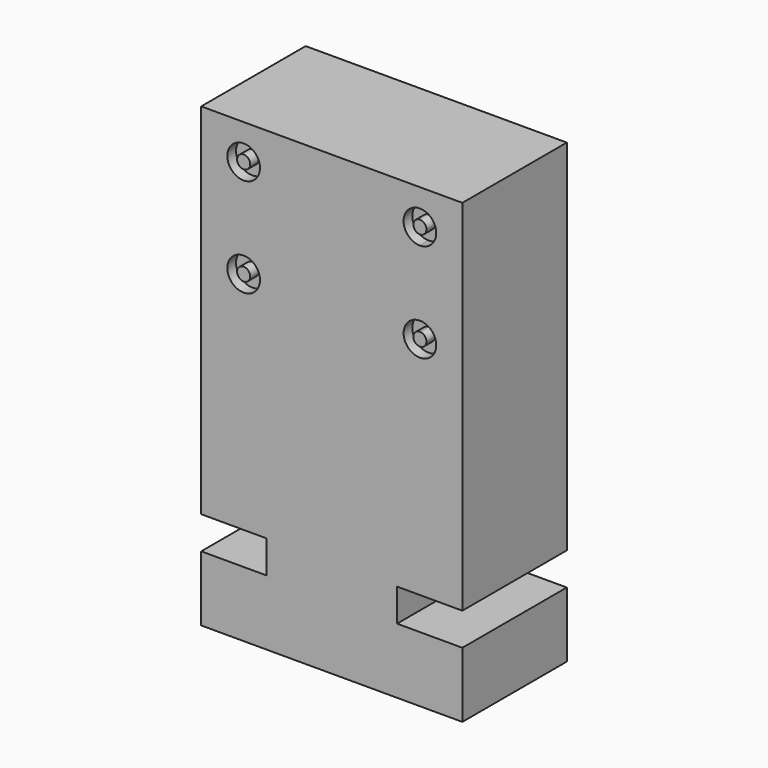
from build123d import *

# Parameters (mm, degrees)
F1_DEPTH = 25.4
F2_R     = 3.175
F2_R_2   = 1.27
F3_DEPTH = 2.1166666667


with BuildPart() as f1:
    # F0 (on Front) → F1 (new body)
    with BuildSketch(Plane.XZ):
        Polygon((50.8, 0), (0, 0), (0, -69.85), (12.7, -69.85), (12.7, -76.2), (0, -76.2), (0, -88.9), (50.8, -88.9), (50.8, -76.2), (38.1, -76.2), (38.1, -69.85), (50.8, -69.85), align=None)
    extrude(amount=-F1_DEPTH)

    # F2 (on face) → F3 (cut)
    with BuildSketch(Plane.XZ):
        with BuildLine():
            ThreePointArc((11.43, -6.82625), (8.255, -3.65125), (5.08, -6.82625))
            ThreePointArc((5.08, -6.82625), (8.255, -10.00125), (11.43, -6.82625))
        make_face()
        with BuildLine():
            ThreePointArc((6.985, -6.82625), (8.255, -5.55625), (9.525, -6.82625))
            ThreePointArc((9.525, -6.82625), (8.255, -8.09625), (6.985, -6.82625))
        make_face(mode=Mode.SUBTRACT)
        with BuildLine():
            Line((45.72, -6.82625), (43.815, -6.82625))
            ThreePointArc((43.815, -6.82625), (43.4430256121, -7.7242756121), (42.545, -8.09625))
            Line((42.545, -8.09625), (42.545, -10.00125))
            ThreePointArc((42.545, -10.00125), (44.7900640303, -9.0713140303), (45.72, -6.82625))
        make_face()
        with BuildLine():
            ThreePointArc((42.545, -8.09625), (41.6469743879, -5.9282243879), (43.815, -6.82625))
            Line((43.815, -6.82625), (45.72, -6.82625))
            ThreePointArc((45.72, -6.82625), (40.2999359697, -4.5811859697), (42.545, -10.00125))
            Line((42.545, -10.00125), (42.545, -8.09625))
        make_face()
        with BuildLine():
            ThreePointArc((45.72, -26.035), (44.7900640303, -23.7899359697), (42.545, -22.86))
            ThreePointArc((42.545, -22.86), (40.2999359697, -28.2800640303), (45.72, -26.035))
        make_face()
        with BuildLine():
            ThreePointArc((43.815, -26.035), (41.6469743879, -26.9330256121), (42.545, -24.765))
            ThreePointArc((42.545, -24.765), (43.4430256121, -25.1369743879), (43.815, -26.035))
        make_face(mode=Mode.SUBTRACT)
        with Locations((8.255, -26.035)):
            Circle(F2_R)
        with Locations((8.255, -26.035)):
            Circle(F2_R_2, mode=Mode.SUBTRACT)
    extrude(amount=-F3_DEPTH, mode=Mode.SUBTRACT)


solid = f1.part
